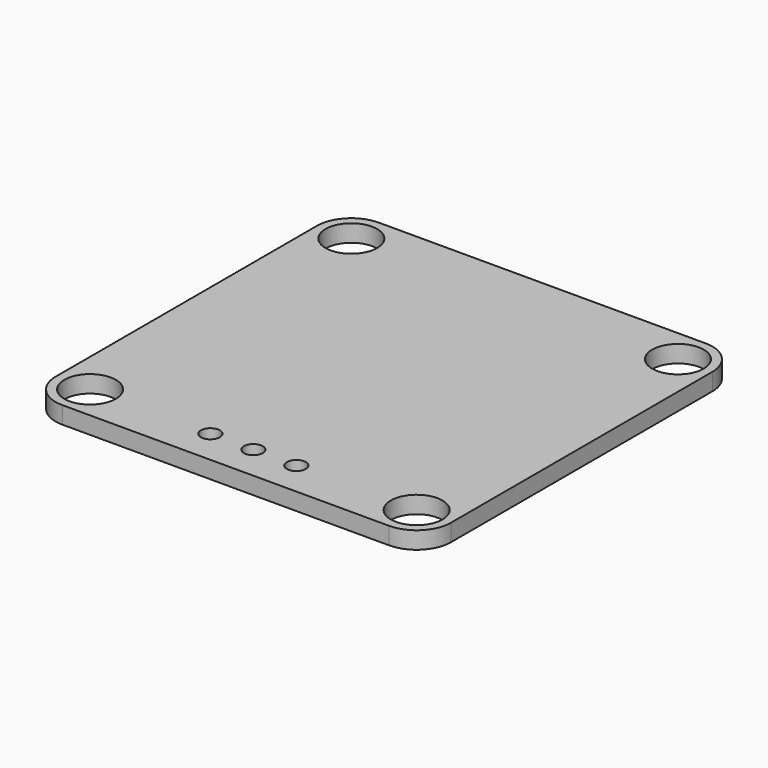
from build123d import *

# Parameters (mm, degrees)
F1_DEPTH = 1
F2_D     = 3
F3_D     = 1.1


with BuildPart() as f1:
    # F0 (on Top) → F1 (new body)
    with BuildSketch(Plane.XY):
        with BuildLine():
            Line((-9.5, -11.5), (9.5, -11.5))
            ThreePointArc((9.5, -11.5), (10.9142135624, -10.9142135624), (11.5, -9.5))
            Line((11.5, -9.5), (11.5, 9.5))
            ThreePointArc((11.5, 9.5), (10.9142135624, 10.9142135624), (9.5, 11.5))
            Line((9.5, 11.5), (-9.5, 11.5))
            ThreePointArc((-9.5, 11.5), (-10.9142135624, 10.9142135624), (-11.5, 9.5))
            Line((-11.5, 9.5), (-11.5, -9.5))
            ThreePointArc((-11.5, -9.5), (-10.9142135624, -10.9142135624), (-9.5, -11.5))
        make_face()
    extrude(amount=F1_DEPTH)

    # F2 (through all)
    with Locations(Plane(origin=(0, 0, 0), x_dir=(1, 0, 0), z_dir=(0, 0, -1))):
        with Locations((-9.5, -9.5), (9.5, -9.5), (9.5, 9.5), (-9.5, 9.5)):
            Hole(F2_D / 2)

    # F3 (through all)
    with Locations(Plane(origin=(0, 0, 0), x_dir=(1, 0, 0), z_dir=(0, 0, -1))):
        with Locations((-2.5, 9.5), (0, 9.5), (2.5, 9.5)):
            Hole(F3_D / 2)


solid = f1.part
